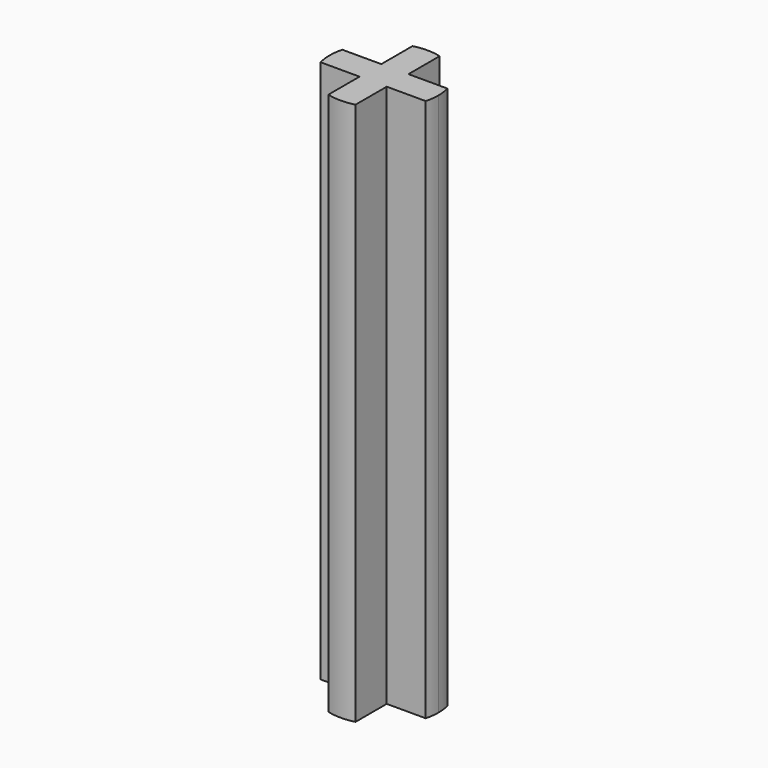
from build123d import *

# Parameters (mm, degrees)
F0_W     = 2.8729833462
F0_H     = 2
F0_W_2   = 2
F0_H_2   = 2.8729833462
F1_DEPTH = 40


with BuildPart() as f1:
    # F0 (on Top) → F1 (new body)
    with BuildSketch(Plane.XY):
        with BuildLine():
            Line((-1, 3.8729833462), (1, 3.8729833462))
            ThreePointArc((1, 3.8729833462), (0, 4), (-1, 3.8729833462))
        make_face()
        with BuildLine():
            Line((-3.8729833462, -1), (-3.8729833462, 1))
            ThreePointArc((-3.8729833462, 1), (-4, 0), (-3.8729833462, -1))
        make_face()
        with BuildLine():
            ThreePointArc((-1, -3.8729833462), (0, -4), (1, -3.8729833462))
            Line((1, -3.8729833462), (-1, -3.8729833462))
        make_face()
        with BuildLine():
            ThreePointArc((3.8729833462, -1), (3.9681187851, -0.5040171699), (4, 0))
            ThreePointArc((4, 0), (3.9681187851, 0.5040171699), (3.8729833462, 1))
            Line((3.8729833462, 1), (3.8729833462, -1))
        make_face()
        with Locations((2.4364916731, 0)):
            Rectangle(F0_W, F0_H)
        with Locations((0, -2.4364916731)):
            Rectangle(F0_W_2, F0_H_2)
        with Locations((-2.4364916731, 0)):
            Rectangle(F0_W, F0_H)
        with Locations((0, 2.4364916731)):
            Rectangle(F0_W_2, F0_H_2)
        Rectangle(F0_W_2, F0_H)
    extrude(amount=F1_DEPTH)


solid = f1.part
